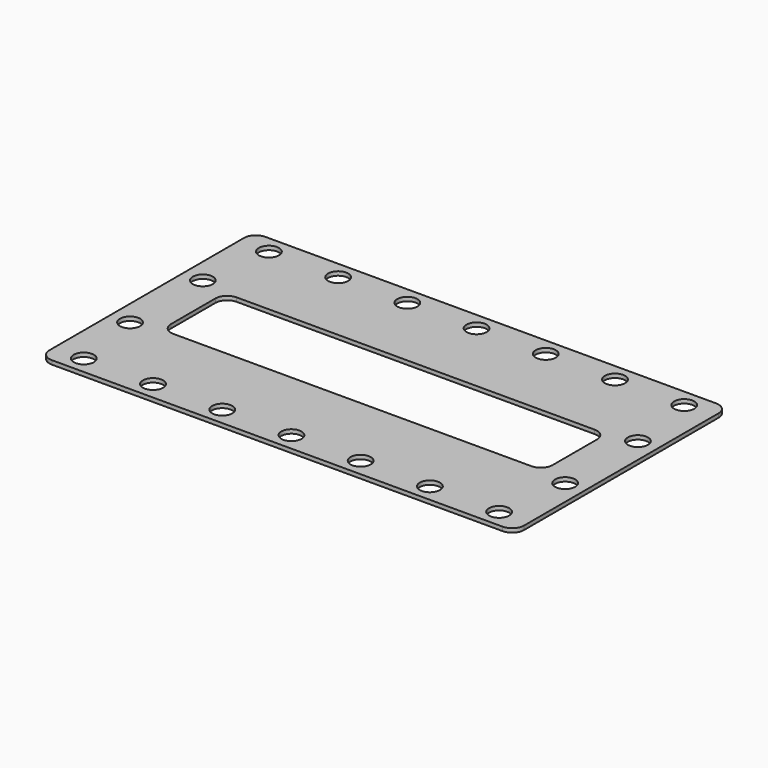
from build123d import *

# Parameters (mm, degrees)
F0_W     = 120
F0_H     = 67.5
F1_DEPTH = 1
F2_R     = 2.55
F3_DEPTH = 25
F4_R     = 3
F5_R     = 2.55
F6_DEPTH = 25


with BuildPart() as f1:
    # F0 (on Top) → F1 (new body)
    with BuildSketch(Plane.XY):
        with Locations((60, -33.75)):
            Rectangle(F0_W, F0_H)
    extrude(amount=F1_DEPTH)

    # F2 (on face) → F3 (cut)
    with BuildSketch(Plane.XY.offset(1)):
        with BuildLine():
            Line((105.25, -23.75), (14.75, -23.75))
            ThreePointArc((14.75, -23.75), (12.62868, -24.62868), (11.75, -26.75))
            Line((11.75, -26.75), (11.75, -40.75))
            ThreePointArc((11.75, -40.75), (12.62868, -42.87132), (14.75, -43.75))
            Line((14.75, -43.75), (105.25, -43.75))
            ThreePointArc((105.25, -43.75), (107.37132, -42.87132), (108.25, -40.75))
            Line((108.25, -40.75), (108.25, -26.75))
            ThreePointArc((108.25, -26.75), (107.37132, -24.62868), (105.25, -23.75))
        make_face()
        with Locations((7.5, -4.5)):
            Circle(F2_R)
        with Locations((7.5, -63)):
            Circle(F2_R)
        with Locations((25, -4.5)):
            Circle(F2_R)
        with Locations((25, -63)):
            Circle(F2_R)
        with Locations((42.5, -4.5)):
            Circle(F2_R)
        with Locations((42.5, -63)):
            Circle(F2_R)
        with Locations((60, -4.5)):
            Circle(F2_R)
        with Locations((60, -63)):
            Circle(F2_R)
        with Locations((77.5, -4.5)):
            Circle(F2_R)
        with Locations((77.5, -63)):
            Circle(F2_R)
        with Locations((95, -4.5)):
            Circle(F2_R)
        with Locations((95, -63)):
            Circle(F2_R)
        with Locations((112.5, -4.5)):
            Circle(F2_R)
        with Locations((112.5, -63)):
            Circle(F2_R)
    extrude(amount=-F3_DEPTH, mode=Mode.SUBTRACT)

    # F4
    f4_edges = [f1.edges().sort_by_distance(p)[0] for p in [
        (0, 0, 0.5),
        (0, -67.5, 0.5),
        (120, 0, 0.5),
        (120, -67.5, 0.5),
    ]]
    fillet(f4_edges, radius=F4_R)

    # F5 (on face) → F6 (cut)
    with BuildSketch(Plane.XY.offset(1)):
        with Locations((115, -45.25)):
            Circle(F5_R)
        with Locations((115, -22.25)):
            Circle(F5_R)
        with Locations((5, -45.25)):
            Circle(F5_R)
        with Locations((5, -22.25)):
            Circle(F5_R)
    extrude(amount=-F6_DEPTH, mode=Mode.SUBTRACT)


solid = f1.part
